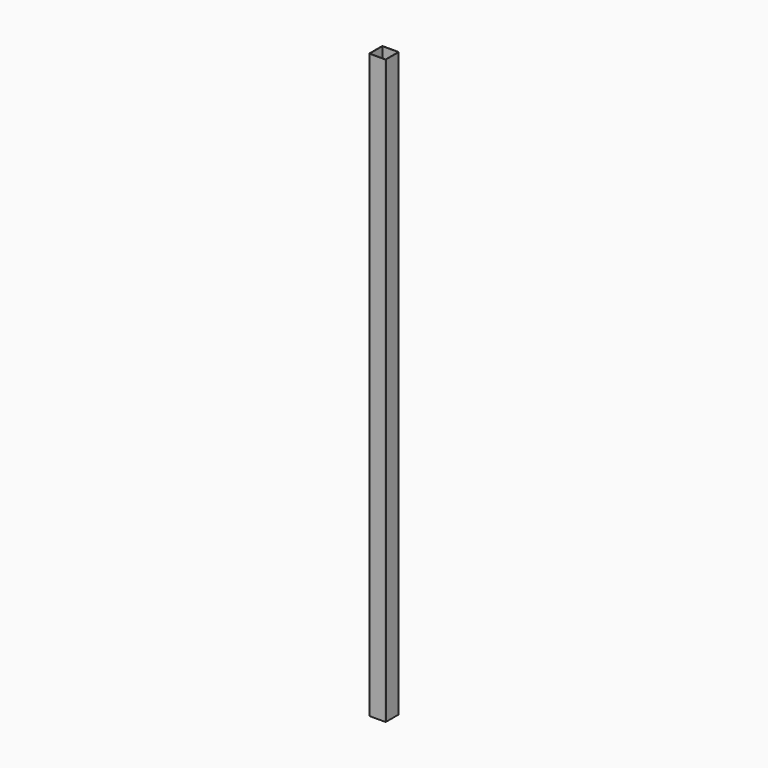
from build123d import *

# Parameters (mm, degrees)
F1_DEPTH = 3000


with BuildPart() as f1:
    # F0 (on Top) → F1 (new body)
    with BuildSketch(Plane.XY):
        with BuildLine():
            Line((-17.106065, 83.860049), (-96.106065, 83.860049))
            ThreePointArc((-96.106065, 83.860049), (-98.227386, 82.981369), (-99.106065, 80.860049))
            Line((-99.106065, 80.860049), (-99.106065, 1.860049))
            ThreePointArc((-99.106065, 1.860049), (-98.227386, -0.261271), (-96.106065, -1.139951))
            Line((-96.106065, -1.139951), (-17.106065, -1.139951))
            ThreePointArc((-17.106065, -1.139951), (-14.984745, -0.261271), (-14.106065, 1.860049))
            Line((-14.106065, 1.860049), (-14.106065, 80.860049))
            ThreePointArc((-14.106065, 80.860049), (-14.984745, 82.981369), (-17.106065, 83.860049))
        make_face()
        with BuildLine():
            Line((-16.606065, 0.360049), (-96.606065, 0.360049))
            ThreePointArc((-96.606065, 0.360049), (-97.313172, 0.652942), (-97.606065, 1.360049))
            Line((-97.606065, 1.360049), (-97.606065, 81.360049))
            ThreePointArc((-97.606065, 81.360049), (-97.313172, 82.067156), (-96.606065, 82.360049))
            Line((-96.606065, 82.360049), (-15.606065, 82.360049))
            Line((-15.606065, 82.360049), (-15.606065, 1.360049))
            ThreePointArc((-15.606065, 1.360049), (-15.898959, 0.652942), (-16.606065, 0.360049))
        make_face(mode=Mode.SUBTRACT)
    extrude(amount=F1_DEPTH)


solid = f1.part
